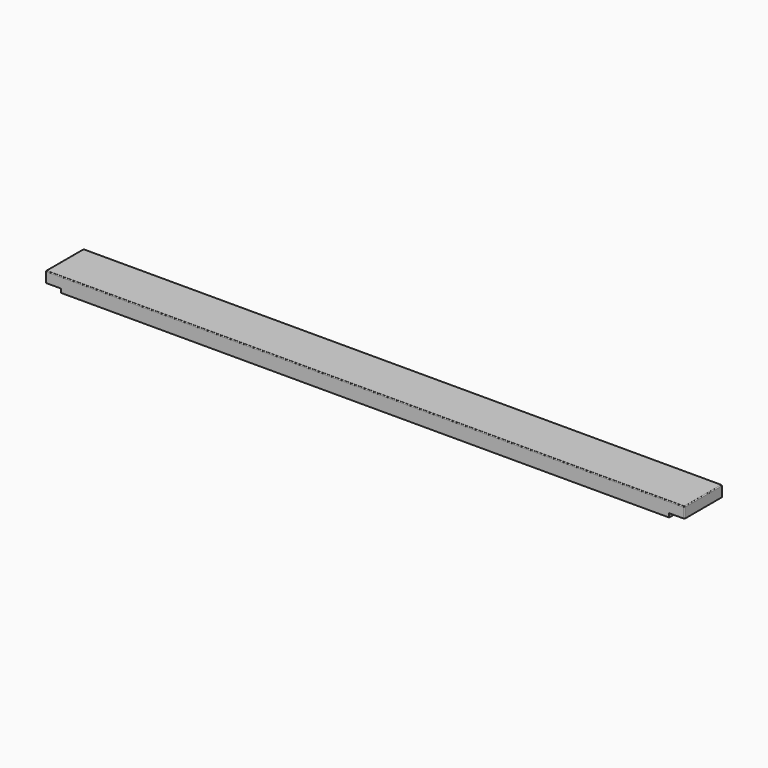
from build123d import *

# Parameters (mm, degrees)
BOX_W           = 833
BOX_H           = 61
BOX_DEPTH       = 19
FILLET_R        = 1
FILLET001_R     = 1
SKETCH_W        = 20
SKETCH_H        = 63
POCKET_DEPTH    = 5
SKETCH001_W     = 20
SKETCH001_H     = 63
POCKET001_DEPTH = 5
FILLET002_R     = 1


with BuildPart() as part:
    # Box → Box (new body)
    with BuildSketch(Plane.XY):
        with Locations((416.5, 30.5)):
            Rectangle(BOX_W, BOX_H)
    extrude(amount=BOX_DEPTH)

    # Fillet
    fillet_edges = [part.edges().sort_by_distance(p)[0] for p in [
        (416.5, 0, 19),
    ]]
    fillet(fillet_edges, radius=FILLET_R)

    # Fillet001
    fillet001_edges = [part.edges().sort_by_distance(p)[0] for p in [
        (833, 31, 19),
    ]]
    fillet(fillet001_edges, radius=FILLET001_R)

    # Sketch (on Face5 of Fillet001) → Pocket (cut)
    with BuildSketch(Plane(origin=(0, 0, 0), x_dir=(1, 0, 0), z_dir=(0, 0, -1))):
        with Locations((10, -31.5)):
            Rectangle(SKETCH_W, SKETCH_H)
    extrude(amount=-POCKET_DEPTH, mode=Mode.SUBTRACT)

    # Sketch001 (on Face6 of Pocket) → Pocket001 (cut)
    with BuildSketch(Plane(origin=(0, 0, 0), x_dir=(1, 0, 0), z_dir=(0, 0, -1))):
        with Locations((823, -31.5)):
            Rectangle(SKETCH001_W, SKETCH001_H)
    extrude(amount=-POCKET001_DEPTH, mode=Mode.SUBTRACT)

    # Fillet002
    fillet002_edges = [part.edges().sort_by_distance(p)[0] for p in [
        (0, 0, 11.5),
    ]]
    fillet(fillet002_edges, radius=FILLET002_R)


solid = part.part
